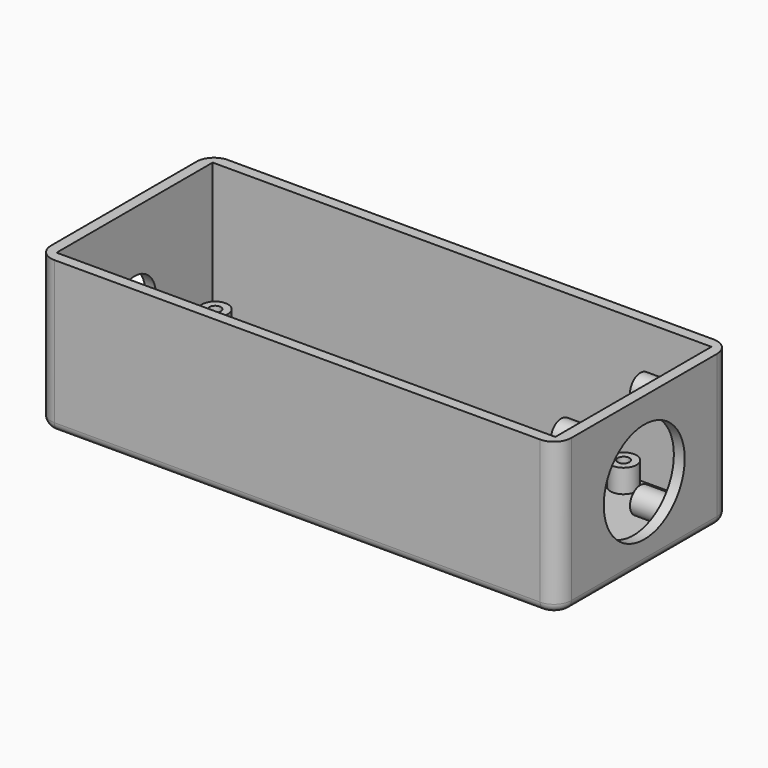
from build123d import *

# Parameters (mm, degrees)
SKETCH_W            = 152.4
SKETCH_H            = 63.5
PAD_DEPTH           = 44.45
SKETCH001_W         = 146.05
SKETCH001_H         = 57.15
POCKET_DEPTH        = 41.275
SKETCH002_R         = 14.81709
POCKET001_DEPTH     = 5.0038
SKETCH003_R         = 3.81
PAD001_DEPTH        = 9.525
SKETCH004_R         = 1.7145
HOLE_DEPTH          = 10.16
HOLE_TIPS_R         = 1.7145
SKETCH005_R         = 7.747
POCKET002_DEPTH     = 25.4
SKETCH006_R         = 5.08
PAD002_DEPTH        = 7.62
SKETCH007_R         = 2.4765
HOLE001_DEPTH       = 24.9936
HOLE001_TIPS_R      = 2.4765
SKETCH008_R         = 3.81
PAD003_DEPTH        = 10.0076
HOLE002_D           = 3.4
HOLE002_DEPTH       = 126.5936
HOLE002_CSINK_D     = 8.0772
HOLE002_CSINK_ANGLE = 90
SKETCH010_R         = 3.683
PAD004_DEPTH        = 15.1384
SKETCH011_R         = 1.7145
HOLE003_DEPTH       = 10.16
HOLE003_TIPS_R      = 1.7145
SKETCH012_R         = 3.683
PAD005_DEPTH        = 10.7696
SKETCH013_R         = 1.7145
HOLE004_DEPTH       = 10.16
HOLE004_TIPS_R      = 1.7145
FILLET_R            = 5.08
FILLET001_R         = 2.54


with BuildPart() as part:
    # Sketch → Pad (new body)
    with BuildSketch(Plane.XY):
        Rectangle(SKETCH_W, SKETCH_H)
    extrude(amount=PAD_DEPTH)

    # Sketch001 → Pocket (cut)
    with BuildSketch(Plane.XY.offset(44.45)):
        Rectangle(SKETCH001_W, SKETCH001_H)
    extrude(amount=-POCKET_DEPTH, mode=Mode.SUBTRACT)

    # Sketch002 → Pocket001 (cut)
    with BuildSketch(Plane.YZ.offset(76.2)):
        with Locations((0, 22.2504)):
            Circle(SKETCH002_R)
    extrude(amount=-POCKET001_DEPTH, mode=Mode.SUBTRACT)

    # Sketch003 → Pad001 (join)
    with BuildSketch(Plane.YZ.offset(73.025)):
        with Locations((-14.478, 36.576)):
            Circle(SKETCH003_R)
        with Locations((14.478, 36.576)):
            Circle(SKETCH003_R)
        with Locations((14.478, 7.62)):
            Circle(SKETCH003_R)
        with Locations((-14.478, 7.62)):
            Circle(SKETCH003_R)
    extrude(amount=-PAD001_DEPTH)

    # Sketch004 → Hole (cut)
    with BuildSketch(Plane.YZ.offset(73.025)):
        with Locations((-14.478, 36.576)):
            Circle(SKETCH004_R)
        with Locations((14.478, 36.576)):
            Circle(SKETCH004_R)
        with Locations((14.478, 7.62)):
            Circle(SKETCH004_R)
        with Locations((-14.478, 7.62)):
            Circle(SKETCH004_R)
    extrude(amount=-HOLE_DEPTH, mode=Mode.SUBTRACT)

    # Hole tips → Hole tip 1 section 0
    with BuildSketch(Plane.YZ.offset(62.865), mode=Mode.PRIVATE) as hole_tip_1_s0:
        with Locations((-14.478, 36.576)):
            Circle(HOLE_TIPS_R)
    loft([hole_tip_1_s0.sketch, Vertex(61.834824, -14.478, 36.576)], mode=Mode.SUBTRACT)

    # Hole tips → Hole tip 2 section 0
    with BuildSketch(Plane.YZ.offset(62.865), mode=Mode.PRIVATE) as hole_tip_2_s0:
        with Locations((14.478, 36.576)):
            Circle(HOLE_TIPS_R)
    loft([hole_tip_2_s0.sketch, Vertex(61.834824, 14.478, 36.576)], mode=Mode.SUBTRACT)

    # Hole tips → Hole tip 3 section 0
    with BuildSketch(Plane.YZ.offset(62.865), mode=Mode.PRIVATE) as hole_tip_3_s0:
        with Locations((14.478, 7.62)):
            Circle(HOLE_TIPS_R)
    loft([hole_tip_3_s0.sketch, Vertex(61.834824, 14.478, 7.62)], mode=Mode.SUBTRACT)

    # Hole tips → Hole tip 4 section 0
    with BuildSketch(Plane.YZ.offset(62.865), mode=Mode.PRIVATE) as hole_tip_4_s0:
        with Locations((-14.478, 7.62)):
            Circle(HOLE_TIPS_R)
    loft([hole_tip_4_s0.sketch, Vertex(61.834824, -14.478, 7.62)], mode=Mode.SUBTRACT)

    # Sketch005 → Pocket002 (cut)
    with BuildSketch(Plane.YZ.offset(-76.2)):
        with Locations((0, 19.05)):
            Circle(SKETCH005_R)
    extrude(amount=POCKET002_DEPTH, mode=Mode.SUBTRACT)

    # Sketch006 → Pad002 (join)
    with BuildSketch(Plane.XY):
        with Locations((-41.275, 12.7)):
            Circle(SKETCH006_R)
        with Locations((47.625, 12.7)):
            Circle(SKETCH006_R)
        with Locations((47.625, -12.7)):
            Circle(SKETCH006_R)
        with Locations((-41.275, -12.7)):
            Circle(SKETCH006_R)
    extrude(amount=PAD002_DEPTH)

    # Sketch007 → Hole001 (cut)
    with BuildSketch(Plane.XY):
        with Locations((-41.275, 12.7)):
            Circle(SKETCH007_R)
        with Locations((47.625, 12.7)):
            Circle(SKETCH007_R)
        with Locations((47.625, -12.7)):
            Circle(SKETCH007_R)
        with Locations((-41.275, -12.7)):
            Circle(SKETCH007_R)
    extrude(amount=HOLE001_DEPTH, mode=Mode.SUBTRACT)

    # Hole001 tips → Hole001 tip 1 section 0
    with BuildSketch(Plane.XY.offset(24.9936), mode=Mode.PRIVATE) as hole001_tip_1_s0:
        with Locations((-41.275, 12.7)):
            Circle(HOLE001_TIPS_R)
    loft([hole001_tip_1_s0.sketch, Vertex(-41.275, 12.7, 26.481631)], mode=Mode.SUBTRACT)

    # Hole001 tips → Hole001 tip 2 section 0
    with BuildSketch(Plane.XY.offset(24.9936), mode=Mode.PRIVATE) as hole001_tip_2_s0:
        with Locations((47.625, 12.7)):
            Circle(HOLE001_TIPS_R)
    loft([hole001_tip_2_s0.sketch, Vertex(47.625, 12.7, 26.481631)], mode=Mode.SUBTRACT)

    # Hole001 tips → Hole001 tip 3 section 0
    with BuildSketch(Plane.XY.offset(24.9936), mode=Mode.PRIVATE) as hole001_tip_3_s0:
        with Locations((47.625, -12.7)):
            Circle(HOLE001_TIPS_R)
    loft([hole001_tip_3_s0.sketch, Vertex(47.625, -12.7, 26.481631)], mode=Mode.SUBTRACT)

    # Hole001 tips → Hole001 tip 4 section 0
    with BuildSketch(Plane.XY.offset(24.9936), mode=Mode.PRIVATE) as hole001_tip_4_s0:
        with Locations((-41.275, -12.7)):
            Circle(HOLE001_TIPS_R)
    loft([hole001_tip_4_s0.sketch, Vertex(-41.275, -12.7, 26.481631)], mode=Mode.SUBTRACT)

    # Sketch008 → Pad003 (join)
    with BuildSketch(Plane.XY):
        with Locations((-68.58, 23.876)):
            Circle(SKETCH008_R)
        with Locations((-68.58, -23.876)):
            Circle(SKETCH008_R)
        with Locations((51.054, 23.876)):
            Circle(SKETCH008_R)
        with Locations((51.054, -23.876)):
            Circle(SKETCH008_R)
    extrude(amount=PAD003_DEPTH)

    # Hole002
    with Locations(Plane(origin=(0, 0, 0), x_dir=(1, 0, 0), z_dir=(0, 0, -1))):
        with Locations((-68.58, -23.876), (-68.58, 23.876), (51.054, -23.876), (51.054, 23.876)):
            CounterSinkHole(HOLE002_D / 2, HOLE002_CSINK_D / 2, depth=HOLE002_DEPTH, counter_sink_angle=HOLE002_CSINK_ANGLE)

    # Sketch010 → Pad004 (join)
    with BuildSketch(Plane.XY.offset(3.175)):
        with Locations((-18.034, 7.1374)):
            Circle(SKETCH010_R)
        with Locations((-18.034, -15.875)):
            Circle(SKETCH010_R)
        with Locations((39.9542, -15.875)):
            Circle(SKETCH010_R)
    extrude(amount=PAD004_DEPTH)

    # Sketch011 → Hole003 (cut)
    with BuildSketch(Plane.XY.offset(18.3134)):
        with Locations((-18.034, 7.1374)):
            Circle(SKETCH011_R)
        with Locations((-18.034, -15.875)):
            Circle(SKETCH011_R)
        with Locations((39.9542, -15.875)):
            Circle(SKETCH011_R)
    extrude(amount=-HOLE003_DEPTH, mode=Mode.SUBTRACT)

    # Hole003 tips → Hole003 tip 1 section 0
    with BuildSketch(Plane.XY.offset(8.1534), mode=Mode.PRIVATE) as hole003_tip_1_s0:
        with Locations((-18.034, 7.1374)):
            Circle(HOLE003_TIPS_R)
    loft([hole003_tip_1_s0.sketch, Vertex(-18.034, 7.1374, 7.123224)], mode=Mode.SUBTRACT)

    # Hole003 tips → Hole003 tip 2 section 0
    with BuildSketch(Plane.XY.offset(8.1534), mode=Mode.PRIVATE) as hole003_tip_2_s0:
        with Locations((-18.034, -15.875)):
            Circle(HOLE003_TIPS_R)
    loft([hole003_tip_2_s0.sketch, Vertex(-18.034, -15.875, 7.123224)], mode=Mode.SUBTRACT)

    # Hole003 tips → Hole003 tip 3 section 0
    with BuildSketch(Plane.XY.offset(8.1534), mode=Mode.PRIVATE) as hole003_tip_3_s0:
        with Locations((39.9542, -15.875)):
            Circle(HOLE003_TIPS_R)
    loft([hole003_tip_3_s0.sketch, Vertex(39.9542, -15.875, 7.123224)], mode=Mode.SUBTRACT)

    # Sketch012 → Pad005 (join)
    with BuildSketch(Plane.XY.offset(3.175)):
        with Locations((39.9542, 7.1374)):
            Circle(SKETCH012_R)
    extrude(amount=PAD005_DEPTH)

    # Sketch013 → Hole004 (cut)
    with BuildSketch(Plane.XY.offset(13.9446)):
        with Locations((39.9542, 7.1374)):
            Circle(SKETCH013_R)
    extrude(amount=-HOLE004_DEPTH, mode=Mode.SUBTRACT)

    # Hole004 tips → Hole004 tip 1 section 0
    with BuildSketch(Plane.XY.offset(3.7846), mode=Mode.PRIVATE) as hole004_tip_1_s0:
        with Locations((39.9542, 7.1374)):
            Circle(HOLE004_TIPS_R)
    loft([hole004_tip_1_s0.sketch, Vertex(39.9542, 7.1374, 2.754424)], mode=Mode.SUBTRACT)

    # Fillet
    fillet_edges = [part.edges().sort_by_distance(p)[0] for p in [
        (76.2, 31.75, 22.225),
        (-76.2, 31.75, 22.225),
        (-76.2, -31.75, 22.225),
        (76.2, -31.75, 22.225),
    ]]
    fillet(fillet_edges, radius=FILLET_R)

    # Fillet001
    fillet001_edges = [part.edges().sort_by_distance(p)[0] for p in [
        (0, -31.75, 0),
    ]]
    fillet(fillet001_edges, radius=FILLET001_R)


solid = part.part
